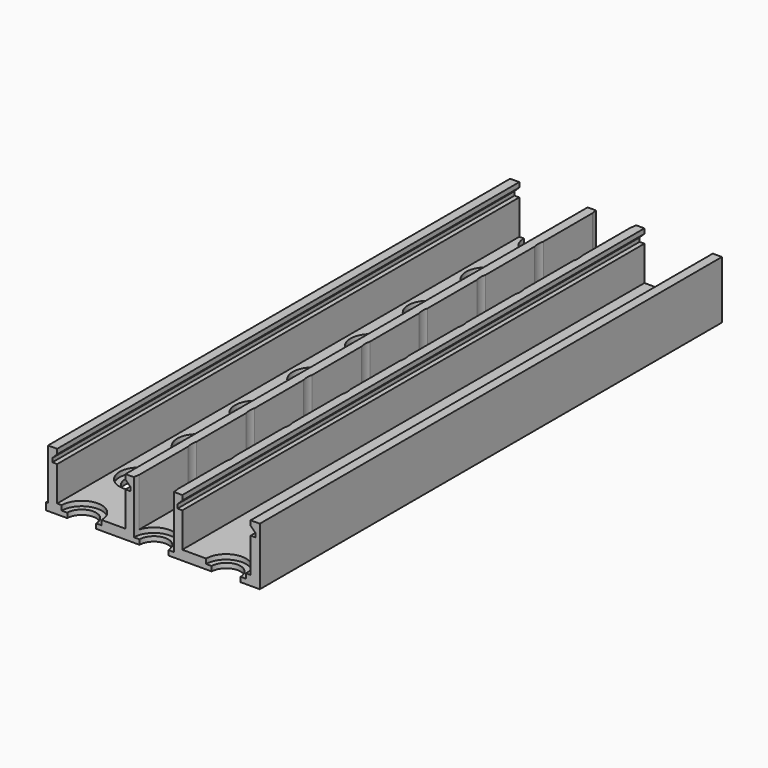
from build123d import *

# Parameters (mm, degrees)
PAD004_DEPTH            = 120
SKETCH016_W             = 44
SKETCH016_H             = 120
PAD005_DEPTH            = 2
LINEARPATTERN002_COUNT  = 2
LINEARPATTERN002_PITCH  = 26
SKETCH018_R             = 4.15
POCKET_DEPTH            = 1
POCKET_DEPTH_BACK       = 10
SKETCH017_R             = 3
POCKET004_DEPTH         = 2
LINEARPATTERN_COUNT     = 2
LINEARPATTERN_PITCH     = 15
SKETCH_W                = 1.5
SKETCH_H                = 30
PAD_DEPTH               = 0.4
BODY002_PLACEMENT_ANGLE = 180


with BuildPart() as part:
    # Sketch015 → Pad004 (new body)
    with BuildSketch(Plane(origin=(0.5, 0, 0), x_dir=(1, 0, 0), z_dir=(0, -1, 0))):
        Polygon((9, -6), (9, 6), (7.1, 6), (7.1, 5), (8.1, 4), (8.1, 3.2), (7.1, 3.2), (7.1, -4), (-7.1, -4), (-7.1, 3.2), (-8.1, 3.2), (-8.1, 4), (-7.1, 5), (-7.1, 6), (-9, 6), (-9, -6), align=None)
    pad004 = extrude(amount=PAD004_DEPTH)

    # Sketch016 (on DatumPlane) → Pad005 (join)
    with BuildSketch(Plane(origin=(-2, 0, -6), x_dir=(1, 0, 0), z_dir=(0, 0, 1))):
        with Locations((15.5, -60)):
            Rectangle(SKETCH016_W, SKETCH016_H)
    extrude(amount=PAD005_DEPTH)

    # LinearPattern002: Pad004 ×2
    with Locations(*[(i * LINEARPATTERN002_PITCH, 0, 0) for i in range(1, LINEARPATTERN002_COUNT)]):
        add(pad004)

    # Sketch018 → Pocket (cut, two sides)
    with BuildSketch(Plane(origin=(-16.5, -215.5, -4), x_dir=(1, 0, 0), z_dir=(0, 0, 1))) as pocket_sk:
        with Locations((15, 95.5)):
            Circle(SKETCH018_R)
        with Locations((45, 95.5)):
            Circle(SKETCH018_R)
        with Locations((30, 110.5)):
            Circle(SKETCH018_R)
        with Locations((60, 110.5)):
            Circle(SKETCH018_R)
        with Locations((90, 110.5)):
            Circle(SKETCH018_R)
        with Locations((15, 125.5)):
            Circle(SKETCH018_R)
        with Locations((45, 125.5)):
            Circle(SKETCH018_R)
        with Locations((75, 125.5)):
            Circle(SKETCH018_R)
        with Locations((105, 125.5)):
            Circle(SKETCH018_R)
        with Locations((15, 155.5)):
            Circle(SKETCH018_R)
        with Locations((45, 155.5)):
            Circle(SKETCH018_R)
        with Locations((75, 155.5)):
            Circle(SKETCH018_R)
        with Locations((60, 140.5)):
            Circle(SKETCH018_R)
        with Locations((30, 140.5)):
            Circle(SKETCH018_R)
        with Locations((90, 140.5)):
            Circle(SKETCH018_R)
        with Locations((105, 155.5)):
            Circle(SKETCH018_R)
        with Locations((30, 170.5)):
            Circle(SKETCH018_R)
        with Locations((60, 170.5)):
            Circle(SKETCH018_R)
        with Locations((90, 170.5)):
            Circle(SKETCH018_R)
        with Locations((15, 185.5)):
            Circle(SKETCH018_R)
        with Locations((45, 185.5)):
            Circle(SKETCH018_R)
        with Locations((75, 185.5)):
            Circle(SKETCH018_R)
        with Locations((105, 185.5)):
            Circle(SKETCH018_R)
        with Locations((30, 200.5)):
            Circle(SKETCH018_R)
        with Locations((60, 200.5)):
            Circle(SKETCH018_R)
        with Locations((90, 200.5)):
            Circle(SKETCH018_R)
        with Locations((15, 215.5)):
            Circle(SKETCH018_R)
        with Locations((45, 215.5)):
            Circle(SKETCH018_R)
        with Locations((120, 110.5)):
            Circle(SKETCH018_R)
        with Locations((120, 140.5)):
            Circle(SKETCH018_R)
        with Locations((120, 170.5)):
            Circle(SKETCH018_R)
        with Locations((120, 200.5)):
            Circle(SKETCH018_R)
        with Locations((0, 110.5)):
            Circle(SKETCH018_R)
        with Locations((0, 140.5)):
            Circle(SKETCH018_R)
        with Locations((0, 170.5)):
            Circle(SKETCH018_R)
        with Locations((0, 200.5)):
            Circle(SKETCH018_R)
    pocket = extrude(amount=-POCKET_DEPTH, mode=Mode.SUBTRACT) + extrude(pocket_sk.sketch, amount=POCKET_DEPTH_BACK, mode=Mode.SUBTRACT)

    # Sketch017 → Pocket004 (cut)
    with BuildSketch(Plane(origin=(-16.5, -215.5, -4), x_dir=(1, 0, 0), z_dir=(0, 0, 1))):
        with Locations((15, 95.5)):
            Circle(SKETCH017_R)
        with Locations((45, 95.5)):
            Circle(SKETCH017_R)
        with Locations((30, 110.5)):
            Circle(SKETCH017_R)
        with Locations((60, 110.5)):
            Circle(SKETCH017_R)
        with Locations((90, 110.5)):
            Circle(SKETCH017_R)
        with Locations((15, 125.5)):
            Circle(SKETCH017_R)
        with Locations((45, 125.5)):
            Circle(SKETCH017_R)
        with Locations((75, 125.5)):
            Circle(SKETCH017_R)
        with Locations((105, 125.5)):
            Circle(SKETCH017_R)
        with Locations((15, 155.5)):
            Circle(SKETCH017_R)
        with Locations((45, 155.5)):
            Circle(SKETCH017_R)
        with Locations((75, 155.5)):
            Circle(SKETCH017_R)
        with Locations((60, 140.5)):
            Circle(SKETCH017_R)
        with Locations((30, 140.5)):
            Circle(SKETCH017_R)
        with Locations((90, 140.5)):
            Circle(SKETCH017_R)
        with Locations((105, 155.5)):
            Circle(SKETCH017_R)
        with Locations((30, 170.5)):
            Circle(SKETCH017_R)
        with Locations((60, 170.5)):
            Circle(SKETCH017_R)
        with Locations((90, 170.5)):
            Circle(SKETCH017_R)
        with Locations((15, 185.5)):
            Circle(SKETCH017_R)
        with Locations((45, 185.5)):
            Circle(SKETCH017_R)
        with Locations((75, 185.5)):
            Circle(SKETCH017_R)
        with Locations((105, 185.5)):
            Circle(SKETCH017_R)
        with Locations((30, 200.5)):
            Circle(SKETCH017_R)
        with Locations((60, 200.5)):
            Circle(SKETCH017_R)
        with Locations((90, 200.5)):
            Circle(SKETCH017_R)
        with Locations((15, 215.5)):
            Circle(SKETCH017_R)
        with Locations((45, 215.5)):
            Circle(SKETCH017_R)
        with Locations((120, 110.5)):
            Circle(SKETCH017_R)
        with Locations((120, 140.5)):
            Circle(SKETCH017_R)
        with Locations((120, 170.5)):
            Circle(SKETCH017_R)
        with Locations((120, 200.5)):
            Circle(SKETCH017_R)
        with Locations((0, 110.5)):
            Circle(SKETCH017_R)
        with Locations((0, 140.5)):
            Circle(SKETCH017_R)
        with Locations((0, 170.5)):
            Circle(SKETCH017_R)
        with Locations((0, 200.5)):
            Circle(SKETCH017_R)
    pocket004 = extrude(amount=-POCKET004_DEPTH, mode=Mode.SUBTRACT)

    # LinearPattern: Pocket004, Pocket ×2
    with Locations(*[(i * LINEARPATTERN_PITCH, 0, 0) for i in range(1, LINEARPATTERN_COUNT)]):
        add(pocket004, mode=Mode.SUBTRACT)
        add(pocket, mode=Mode.SUBTRACT)

    # Sketch (on Face79 of LinearPattern) → Pad (join)
    with BuildSketch(Plane(origin=(35.5, 0, 0), x_dir=(0, 0, 1), z_dir=(1, 0, 0))):
        with Locations((-5.25, 15)):
            Rectangle(SKETCH_W, SKETCH_H)
    extrude(amount=PAD_DEPTH)


with BuildPart() as part_1:
    # Body002 placement: moved
    add(part.part.moved(Location((2.5, -156, 9))).rotate(Axis((2.5, -156, 9), (0, 0, 1)), BODY002_PLACEMENT_ANGLE))


solid = part_1.part
